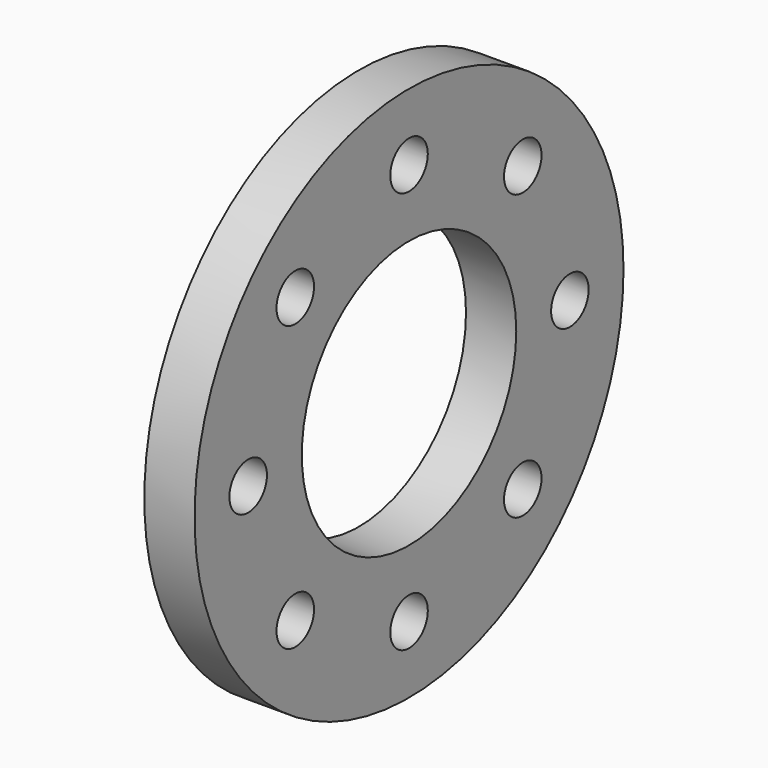
from build123d import *

# Parameters (mm, degrees)
F0_R     = 127
F0_R_2   = 11.1125
F0_R_3   = 63.5
F1_DEPTH = 23.8125


with BuildPart() as f1:
    # F0 (on Right) → F1 (new body)
    with BuildSketch(Plane.YZ):
        Circle(F0_R)
        with Locations((-67.351921, -67.351921)):
            Circle(F0_R_2, mode=Mode.SUBTRACT)
        with Locations((0, -95.25)):
            Circle(F0_R_2, mode=Mode.SUBTRACT)
        with Locations((67.351921, -67.351921)):
            Circle(F0_R_2, mode=Mode.SUBTRACT)
        with Locations((-95.25, 0)):
            Circle(F0_R_2, mode=Mode.SUBTRACT)
        with Locations((-67.351921, 67.351921)):
            Circle(F0_R_2, mode=Mode.SUBTRACT)
        Circle(F0_R_3, mode=Mode.SUBTRACT)
        with Locations((95.25, 0)):
            Circle(F0_R_2, mode=Mode.SUBTRACT)
        with Locations((0, 95.25)):
            Circle(F0_R_2, mode=Mode.SUBTRACT)
        with Locations((67.351921, 67.351921)):
            Circle(F0_R_2, mode=Mode.SUBTRACT)
    extrude(amount=F1_DEPTH)


solid = f1.part
